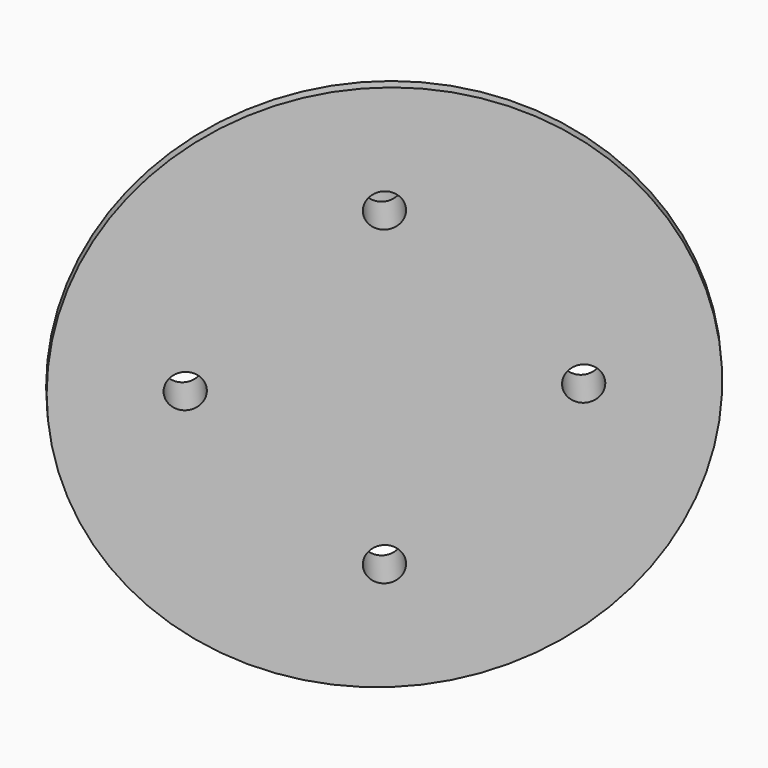
from build123d import *

# Parameters (mm, degrees)
CYLINDER039_R             = 4.5
CYLINDER039_DEPTH         = 21
ARRAY005_COUNT            = 4
CYLINDER038_R             = 2.5
CYLINDER038_DEPTH         = 21
ARRAY004_COUNT            = 4
FUSION016_PLACEMENT_ANGLE = 90
CYLINDER037_R             = 39
CYLINDER037_DEPTH         = 10
CHAMFER004_SIZE           = 8.4
CYLINDER029_R             = 2.5
CYLINDER029_DEPTH         = 32
CYLINDER028_R             = 4.5
CYLINDER028_DEPTH         = 5
CYLINDER030_R             = 4.5
CYLINDER030_DEPTH         = 5
BOX010_W                  = 24
BOX010_H                  = 14
BOX010_DEPTH              = 10
BOX009_W                  = 18
BOX009_H                  = 10
BOX009_DEPTH              = 21
BOX008_W                  = 21
BOX008_H                  = 22
BOX008_DEPTH              = 24
CHAMFER001_SIZE           = 7
FILLET001_R               = 2
FUSION017_PLACEMENT_ANGLE = 221


with BuildPart() as array005:
    # Cylinder039 → Cylinder039 (new body)
    with BuildSketch(Plane(origin=(23, 0, 0), x_dir=(1, 0, 0), z_dir=(0, 0, 1))):
        Circle(CYLINDER039_R)
    extrude(amount=CYLINDER039_DEPTH)

    # Array005: Array005 ×4 about axis
    array005_axis = Axis((0, 0, 0), (0, 0, 1))


with BuildPart() as array005_1:
    add(array005.part)
    for i in range(1, ARRAY005_COUNT):
        add(array005.part.rotate(array005_axis, i * 360 / ARRAY005_COUNT))


with BuildPart() as array005_2:
    # Array005 placement: moved
    add(array005_1.part.moved(Location((0, 0, -20))))


with BuildPart() as fusion016:
    # Cylinder038 → Cylinder038 (new body)
    with BuildSketch(Plane(origin=(23, 0, 0), x_dir=(1, 0, 0), z_dir=(0, 0, 1))):
        Circle(CYLINDER038_R)
    extrude(amount=CYLINDER038_DEPTH)

    # Array004: Fusion016 ×4 about axis
    array004_axis = Axis((0, 0, 0), (0, 0, 1))


with BuildPart() as fusion016_1:
    add(fusion016.part)
    for i in range(1, ARRAY004_COUNT):
        add(fusion016.part.rotate(array004_axis, i * 360 / ARRAY004_COUNT))

    # Fusion016: union Array005
    add(array005_2.part)


with BuildPart() as fusion016_2:
    # Fusion016 placement: moved
    add(fusion016_1.part.moved(Location((14.5, -61, 0))).rotate(Axis((14.5, -61, 0), (-1, 0, 0)), FUSION016_PLACEMENT_ANGLE))


with BuildPart() as cut034:
    # Cylinder037 → Cylinder037 (new body)
    with BuildSketch(Plane(origin=(14.5, -70, 0), x_dir=(1, 0, 0), z_dir=(0, 1, 0))):
        Circle(CYLINDER037_R)
    extrude(amount=CYLINDER037_DEPTH)

    # Chamfer004
    chamfer004_edges = [cut034.edges().sort_by_distance(p)[0] for p in [
        (-24.5, -70, 0),
    ]]
    chamfer(chamfer004_edges, length=CHAMFER004_SIZE)


with BuildPart() as cut034_1:
    # Chamfer004 placement: moved
    add(cut034.part.moved(Location((0, 7, 0))))

    # Cut034: cut Fusion016
    add(fusion016_2.part, mode=Mode.SUBTRACT)


with BuildPart() as cylinder029:
    # Cylinder029 → Cylinder029 (new body)
    with BuildSketch(Plane(origin=(55, -39, -20), x_dir=(1, 0, 0), z_dir=(0, 0, 1))):
        Circle(CYLINDER029_R)
    extrude(amount=CYLINDER029_DEPTH)


with BuildPart() as cylinder028:
    # Cylinder028 → Cylinder028 (new body)
    with BuildSketch(Plane(origin=(55, -39, 8), x_dir=(1, 0, 0), z_dir=(0, 0, 1))):
        Circle(CYLINDER028_R)
    extrude(amount=CYLINDER028_DEPTH)


with BuildPart() as cylinder030:
    # Cylinder030 → Cylinder030 (new body)
    with BuildSketch(Plane(origin=(55, -39, -14), x_dir=(1, 0, 0), z_dir=(0, 0, 1))):
        Circle(CYLINDER030_R)
    extrude(amount=CYLINDER030_DEPTH)


with BuildPart() as box010:
    # Box010 → Box010 (new body)
    with BuildSketch(Plane(origin=(43, -46, -5), x_dir=(1, 0, 0), z_dir=(0, 0, 1))):
        with Locations((12, 7)):
            Rectangle(BOX010_W, BOX010_H)
    extrude(amount=BOX010_DEPTH)


with BuildPart() as box009:
    # Box009 → Box009 (new body)
    with BuildSketch(Plane(origin=(46, -30, -11), x_dir=(1, 0, 0), z_dir=(0, 0, 1))):
        with Locations((9, 5)):
            Rectangle(BOX009_W, BOX009_H)
    extrude(amount=BOX009_DEPTH)


with BuildPart() as fusion017:
    # Box008 → Box008 (new body)
    with BuildSketch(Plane(origin=(44.5, -45, -12.5), x_dir=(1, 0, 0), z_dir=(0, 0, 1))):
        with Locations((10.5, 11)):
            Rectangle(BOX008_W, BOX008_H)
    extrude(amount=BOX008_DEPTH)

    # Cut025: cut Box009
    add(box009.part, mode=Mode.SUBTRACT)

    # Chamfer001
    chamfer001_edges = [fusion017.edges().sort_by_distance(p)[0] for p in [
        (44.5, -45, -0.5),
        (65.5, -45, -0.5),
    ]]
    chamfer(chamfer001_edges, length=CHAMFER001_SIZE)

    # Fillet001
    fillet001_edges = [fusion017.edges().sort_by_distance(p)[0] for p in [
        (51.5, -45, -0.5),
        (58.5, -45, -0.5),
    ]]
    fillet(fillet001_edges, radius=FILLET001_R)

    # Cut024: cut Box010
    add(box010.part, mode=Mode.SUBTRACT)

    # Cut027: cut Cylinder030
    add(cylinder030.part, mode=Mode.SUBTRACT)

    # Cut026: cut Cylinder028
    add(cylinder028.part, mode=Mode.SUBTRACT)

    # Cut023: cut Cylinder029
    add(cylinder029.part, mode=Mode.SUBTRACT)


with BuildPart() as fusion017_1:
    # Cut023 placement: moved
    add(fusion017.part.moved(Location((-40, -38, 0))))

    # Fusion017: union Cut034
    add(cut034_1.part)


with BuildPart() as fusion017_2:
    # Fusion017 placement: moved
    add(fusion017_1.part.moved(Location((169, -172, 0))).rotate(Axis((169, -172, 0), (0, 0, 1)), FUSION017_PLACEMENT_ANGLE))


solid = fusion017_2.part
